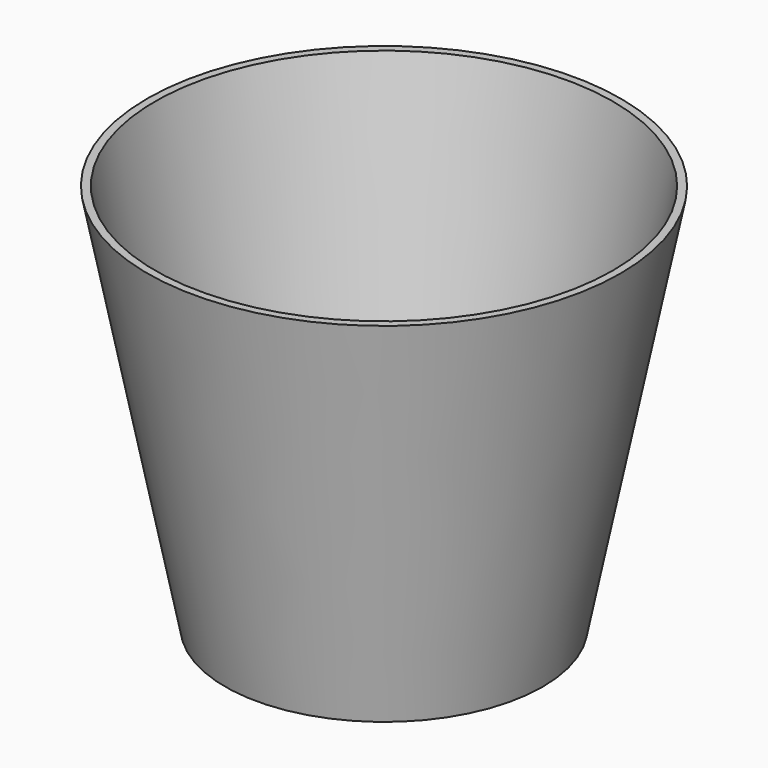
from build123d import *

# Parameters (mm, degrees)
CYLINDER_R     = 10
CYLINDER_DEPTH = 10
THICKNESS_T    = 2


with BuildPart() as cilindro:
    # Cylinder → Cylinder (new body)
    with BuildSketch(Plane.XY.offset(-5)):
        Circle(CYLINDER_R)
    extrude(amount=CYLINDER_DEPTH)


with BuildPart() as cut:
    # Cone → Cone (revolve)
    with BuildSketch(Plane.XZ):
        Polygon((0, 0), (40, 0), (60, 100), (0, 100), align=None)
    revolve(axis=Axis((0, 0, 0), (0, 0, 1)))

    # Thickness
    thickness_openings = [cut.faces().sort_by_distance(p)[0] for p in [
        (0, 0, 100),
    ]]
    offset(amount=THICKNESS_T, openings=thickness_openings, kind=Kind.INTERSECTION)

    # Cut: cut Cilindro
    add(cilindro.part, mode=Mode.SUBTRACT)


solid = cut.part
